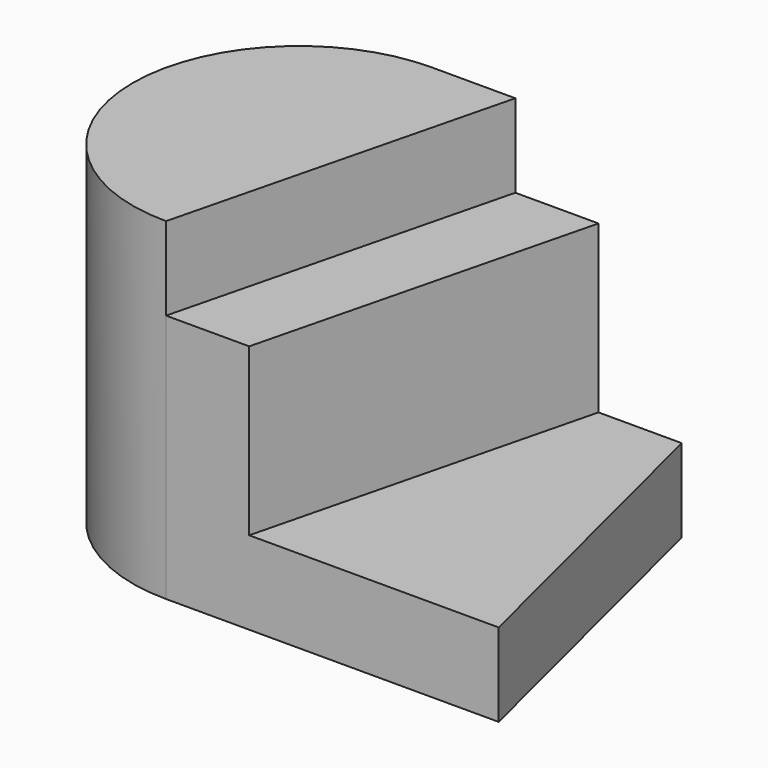
from build123d import *

# Parameters (mm, degrees)
F1_DEPTH = 40
F3_DEPTH = 20
F5_DEPTH = 10
F7_DEPTH = 10
F9_DEPTH = 40


with BuildPart() as f1:
    # F0 (on Front) → F1 (new body)
    with BuildSketch(Plane.XZ):
        Polygon((0, 40), (0, 0), (60, 0), (60, 10), (40, 10), (40, 30), (30, 30), (30, 40), align=None)
    extrude(amount=F1_DEPTH)

    # F2 (on face) → F3 (cut)
    with BuildSketch(Plane.XY.offset(30)):
        Polygon((40, -40), (40, 0), (30, -40), align=None)
    extrude(amount=-F3_DEPTH, mode=Mode.SUBTRACT)

    # F4 (on face) → F5 (cut)
    with BuildSketch(Plane.XY.offset(10)):
        Polygon((60, 0), (50, 0), (60, -40), align=None)
    extrude(amount=-F5_DEPTH, mode=Mode.SUBTRACT)

    # F6 (on face) → F7 (cut)
    with BuildSketch(Plane.XY.offset(40)):
        Polygon((30, -40), (30, 0), (20, -40), align=None)
    extrude(amount=-F7_DEPTH, mode=Mode.SUBTRACT)

    # F8 (on face) → F9 (cut)
    with BuildSketch(Plane.XY.offset(40)):
        with BuildLine():
            ThreePointArc((20, -40), (5.857864, -34.142136), (0, -20))
            Line((0, -20), (0, -40))
            Line((0, -40), (20, -40))
        make_face()
        with BuildLine():
            ThreePointArc((0, -20), (5.857864, -5.857864), (20, 0))
            Line((20, 0), (0, 0))
            Line((0, 0), (0, -20))
        make_face()
    extrude(amount=-F9_DEPTH, mode=Mode.SUBTRACT)


solid = f1.part
